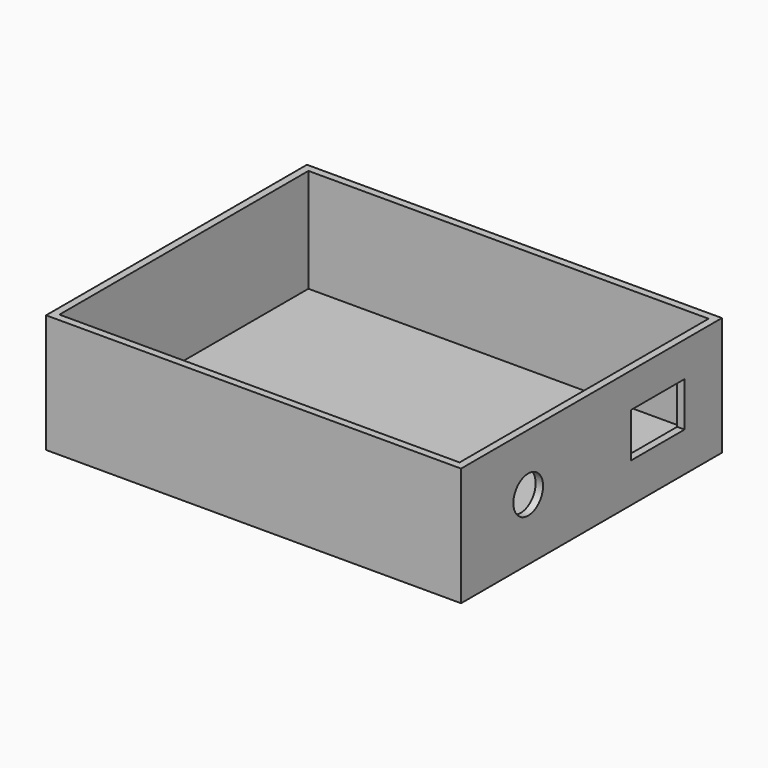
from build123d import *

# Parameters (mm, degrees)
F0_W     = 88.9
F0_H     = 69.85
F0_W_2   = 85.725
F0_H_2   = 66.675
F1_DEPTH = 25.4
F2_DEPTH = 3.175
F4_D     = 7.9502
F4_DEPTH = 12.7
F3_W     = 14.2875
F3_H     = 9.525
F5_DEPTH = 1.5875


with BuildPart() as f1:
    # F0 (on Top) → F1 (new body)
    with BuildSketch(Plane.XY):
        Rectangle(F0_W, F0_H)
        Rectangle(F0_W_2, F0_H_2, mode=Mode.SUBTRACT)
    extrude(amount=F1_DEPTH)

    # F0 (on Top) → F2 (join)
    with BuildSketch(Plane.XY):
        Rectangle(F0_W_2, F0_H_2)
    extrude(amount=F2_DEPTH)

    # F4
    with Locations(Plane.YZ.offset(44.45)):
        with Locations((-16.949601, 13.195173)):
            Hole(F4_D / 2, depth=F4_DEPTH)

    # F3 (on face) → F5 (cut, through all)
    with BuildSketch(Plane.YZ.offset(44.45)):
        with Locations((17.784979, 13.195173)):
            Rectangle(F3_W, F3_H)
    extrude(amount=-F5_DEPTH, mode=Mode.SUBTRACT)


solid = f1.part
